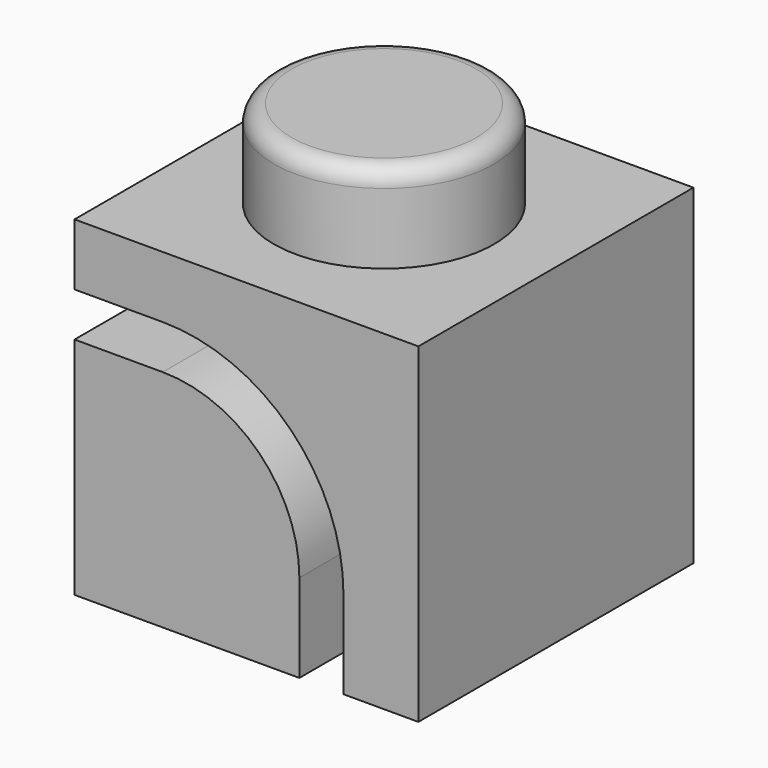
from build123d import *

# Parameters (mm, degrees)
SKETCH001_W     = 7.8
SKETCH001_H     = 7.8
PAD_DEPTH       = 7.5
POCKET_DEPTH    = 2.1
POCKET001_DEPTH = 5


with BuildPart() as part:
    # Sketch → Revolution (revolve)
    with BuildSketch(Plane.XZ):
        with BuildLine():
            Line((0, 0), (0, 2))
            Line((0, 2), (-2.1, 2))
            ThreePointArc((-2.1, 2), (-2.382843, 1.882843), (-2.5, 1.6))
            Line((-2.5, 1.6), (-2.5, 0))
            Line((-2.5, 0), (0, 0))
        make_face()
    revolve(axis=Axis((0, 0, 0), (0, 0, 1)))

    # Sketch001 → Pad (new body)
    with BuildSketch(Plane.XY):
        Rectangle(SKETCH001_W, SKETCH001_H)
    extrude(amount=-PAD_DEPTH)

    # Sketch002 → Pocket (cut, symmetric)
    with BuildSketch(Plane.XZ):
        with BuildLine():
            Line((-3.9, -0.7), (-1.9, -0.7))
            ThreePointArc((2.9, -5.5), (1.494113, -2.105887), (-1.9, -0.7))
            Line((2.9, -7.5), (2.9, -5.5))
            Line((0.7, -7.5), (2.9, -7.5))
            Line((0.7, -7.5), (0.7, -5.5))
            ThreePointArc((0.7, -5.5), (-0.061522, -3.661522), (-1.9, -2.9))
            Line((-3.9, -2.9), (-1.9, -2.9))
            Line((-3.9, -0.7), (-3.9, -2.9))
        make_face()
    extrude(amount=POCKET_DEPTH, both=True, mode=Mode.SUBTRACT)

    # Sketch003 → Pocket001 (cut)
    with BuildSketch(Plane.XZ):
        with BuildLine():
            Line((-1.9, -1.4), (-3.9, -1.4))
            Line((-3.9, -1.4), (-3.9, -2.4))
            Line((-3.9, -2.4), (-1.9, -2.4))
            ThreePointArc((1.2, -5.5), (0.292031, -3.307969), (-1.9, -2.4))
            Line((1.2, -5.5), (1.2, -7.5))
            Line((1.2, -7.5), (2.2, -7.5))
            Line((2.2, -7.5), (2.2, -5.5))
            ThreePointArc((2.2, -5.5), (0.999138, -2.600862), (-1.9, -1.4))
        make_face()
    extrude(amount=POCKET001_DEPTH, mode=Mode.SUBTRACT)


solid = part.part
